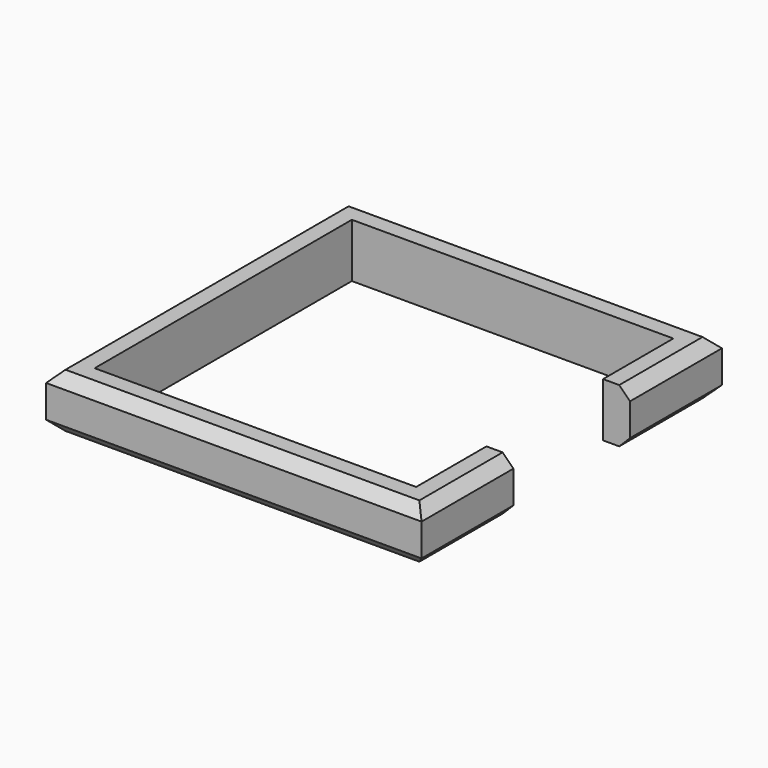
from build123d import *


with BuildPart() as f2:
    # F2: sweep along a path in F1
    with BuildLine(Plane.XY) as f2_path:
        Line((-41.6680008888, 0), (-41.6680008888, 203.2))
        Line((-41.6680008888, 203.2), (-790.9680008888, 203.2))
        Line((-790.9680008888, 203.2), (-790.9680008888, -546.1))
        Line((-790.9680008888, -546.1), (-41.6680008888, -546.1))
        Line((-41.6680008888, -546.1), (-41.6680008888, -342.9))
    # F0 (on Front) → F2 (sweep)
    with BuildSketch(Plane.XZ):
        Polygon((0, 63.5), (-38.1, 63.5), (-38.1, 0), (-38.1, -63.5), (0, -63.5), (25.4, -38.1), (25.4, 0), (25.4, 38.1), align=None)
    sweep(path=f2_path.line, transition=Transition.RIGHT)


solid = f2.part
